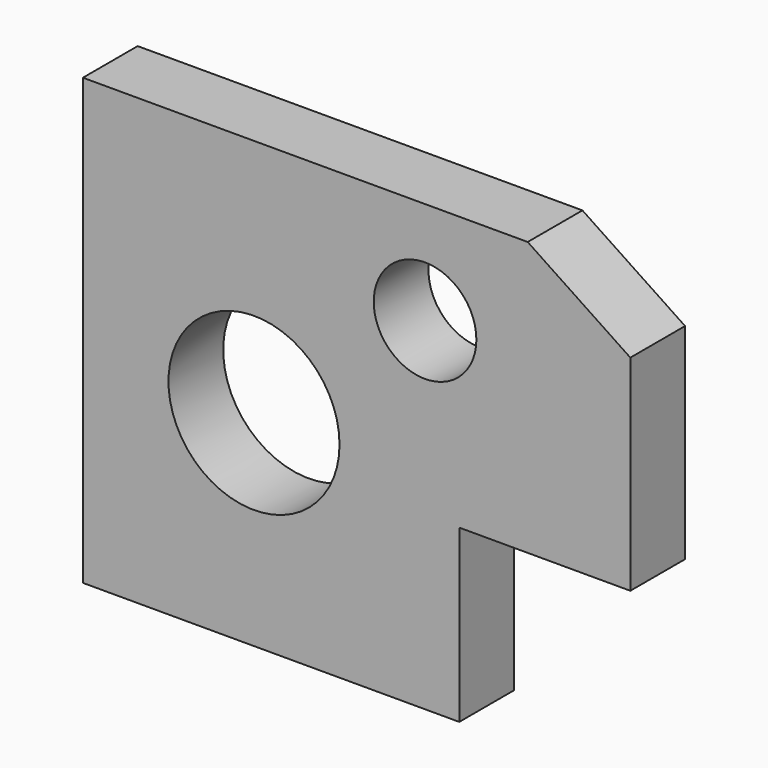
from build123d import *

# Parameters (mm, degrees)
F0_R     = 31.75
F0_R_2   = 19.05
F1_DEPTH = 25.4


with BuildPart() as f1:
    # F0 (on Front) → F1 (new body)
    with BuildSketch(Plane.XZ):
        Polygon((16.857273, -12.7), (80.357273, -12.7), (80.357273, 63.5), (42.257273, 88.9), (-122.842727, 88.9), (-122.842727, -76.2), (16.857273, -76.2), align=None)
        with Locations((-59.342727, 0)):
            Circle(F0_R, mode=Mode.SUBTRACT)
        with Locations((4.157273, 50.8)):
            Circle(F0_R_2, mode=Mode.SUBTRACT)
    extrude(amount=F1_DEPTH)


solid = f1.part
